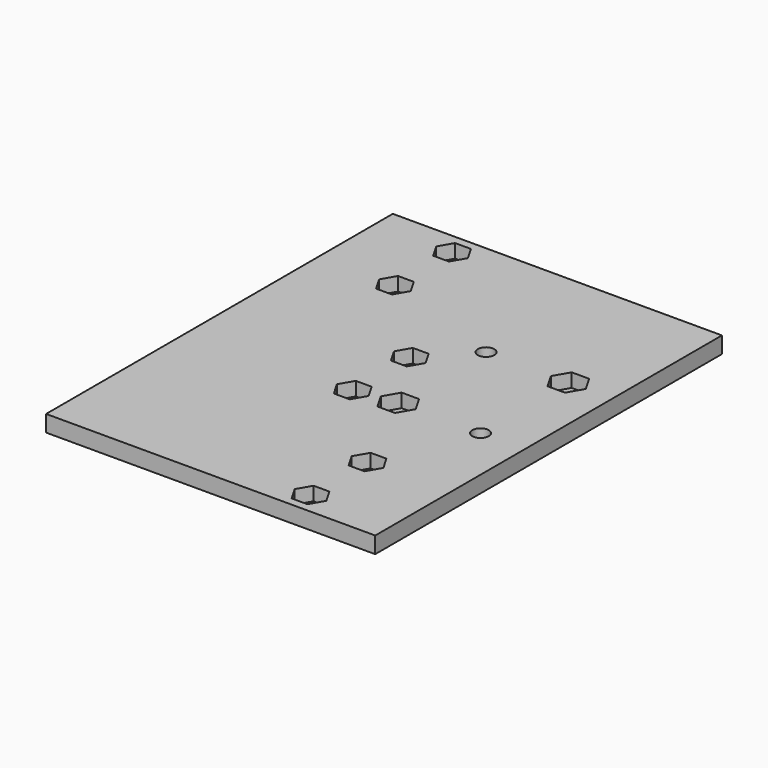
from build123d import *

# Parameters (mm, degrees)
F0_W     = 60
F0_H     = 79
F0_R     = 1.3
F0_R_2   = 1.5
F1_DEPTH = 3
F3_DEPTH = 2.5


with BuildPart() as f1:
    # F0 (on Top) → F1 (new body)
    with BuildSketch(Plane.XY):
        with Locations((30, -39.5)):
            Rectangle(F0_W, F0_H)
        with Locations((29.5, -46)):
            Circle(F0_R, mode=Mode.SUBTRACT)
        with Locations((45, -75)):
            Circle(F0_R, mode=Mode.SUBTRACT)
        with Locations((45, -62)):
            Circle(F0_R, mode=Mode.SUBTRACT)
        with Locations((37, -45)):
            Circle(F0_R_2, mode=Mode.SUBTRACT)
        with Locations((52, -45)):
            Circle(F0_R_2, mode=Mode.SUBTRACT)
        with Locations((29.5, -33)):
            Circle(F0_R, mode=Mode.SUBTRACT)
        with Locations((14, -17)):
            Circle(F0_R, mode=Mode.SUBTRACT)
        with Locations((14, -4)):
            Circle(F0_R, mode=Mode.SUBTRACT)
        with Locations((37, -25)):
            Circle(F0_R_2, mode=Mode.SUBTRACT)
        with Locations((52, -25)):
            Circle(F0_R_2, mode=Mode.SUBTRACT)
    extrude(amount=F1_DEPTH)

    # F2 (on face) → F3 (cut)
    with BuildSketch(Plane.XY.offset(3)):
        Polygon((12.556624, -6.5), (15.443376, -6.5), (16.886751, -4), (15.443376, -1.5), (12.556624, -1.5), (11.113249, -4), align=None)
        Polygon((12.556624, -19.5), (15.443376, -19.5), (16.886751, -17), (15.443376, -14.5), (12.556624, -14.5), (11.113249, -17), align=None)
        Polygon((28.056624, -35.5), (30.943376, -35.5), (32.386751, -33), (30.943376, -30.5), (28.056624, -30.5), (26.613249, -33), align=None)
        Polygon((28.056624, -48.5), (30.943376, -48.5), (32.386751, -46), (30.943376, -43.5), (28.056624, -43.5), (26.613249, -46), align=None)
        Polygon((43.556624, -64.5), (46.443376, -64.5), (47.886751, -62), (46.443376, -59.5), (43.556624, -59.5), (42.113249, -62), align=None)
        Polygon((43.556624, -77.5), (46.443376, -77.5), (47.886751, -75), (46.443376, -72.5), (43.556624, -72.5), (42.113249, -75), align=None)
        Polygon((50.412287, -27.75), (53.587713, -27.75), (55.175426, -25), (53.587713, -22.25), (50.412287, -22.25), (48.824574, -25), align=None)
        Polygon((35.412287, -47.75), (38.587713, -47.75), (40.175426, -45), (38.587713, -42.25), (35.412287, -42.25), (33.824574, -45), align=None)
    extrude(amount=-F3_DEPTH, mode=Mode.SUBTRACT)


solid = f1.part
